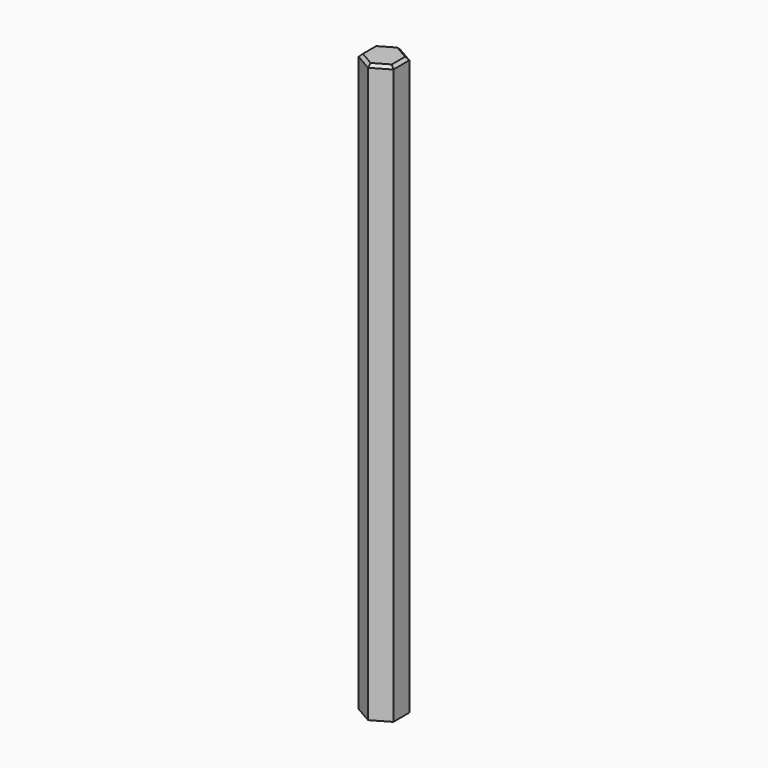
from build123d import *

# Parameters (mm, degrees)
F1_DEPTH = 100
F2_SIZE  = 0.5


with BuildPart() as f1:
    # F0 (on Top) → F1 (new body)
    with BuildSketch(Plane.XY):
        Polygon((3, -1.732051), (3, 1.732051), (0, 3.464102), (-3, 1.732051), (-3, -1.732051), (0, -3.464102), align=None)
    extrude(amount=F1_DEPTH)

    # F2
    f2_edges = [f1.edges().sort_by_distance(p)[0] for p in [
        (3, 0, 100),
        (1.5, 2.598076, 100),
        (-1.5, 2.598076, 100),
        (-3, 0, 100),
        (-1.5, -2.598076, 100),
        (1.5, -2.598076, 100),
    ]]
    chamfer(f2_edges, length=F2_SIZE)


solid = f1.part
